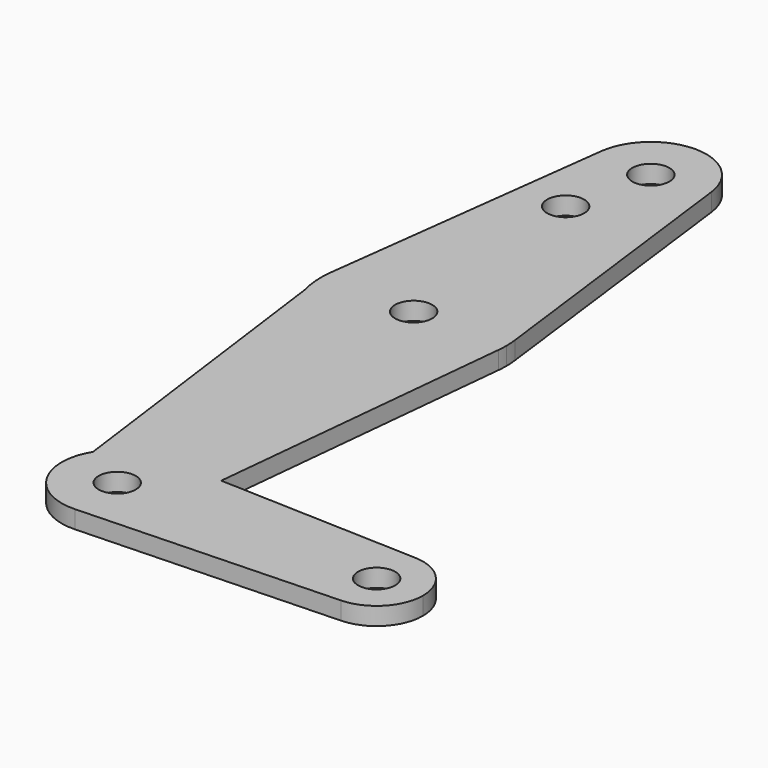
from build123d import *

# Parameters (mm, degrees)
F0_R     = 3.175
F1_DEPTH = 3.048


with BuildPart() as f1:
    # F0 (on Top) → F1 (new body)
    with BuildSketch(Plane.XY):
        with BuildLine():
            ThreePointArc((15.750488268, 1.9843750453), (-2.28e-08, 15.875), (-15.7504882737, 1.984375))
            ThreePointArc((-15.7504882737, 1.984375), (-15.8438414904, 0.9941387366), (-15.875, 0))
            Line((-15.875, 0), (-15.3276351094, -4.1327021368))
            ThreePointArc((-15.3276351094, -4.1327021368), (1.2939167116, -15.8221807771), (15.7954255641, -1.5875))
            ThreePointArc((15.7954255641, -1.5875), (15.8550939106, -0.7947465541), (15.875, 0))
            ThreePointArc((15.875, 0), (15.843841489, 0.9941387594), (15.750488268, 1.9843750453))
        make_face()
        Circle(F0_R, mode=Mode.SUBTRACT)
        with BuildLine():
            Line((-9.4502929642, 51.990625), (-15.7504882737, 1.984375))
            ThreePointArc((-15.7504882737, 1.984375), (-2.28e-08, 15.875), (15.750488268, 1.9843750453))
            Line((15.750488268, 1.9843750453), (9.4502929642, 51.990625))
            ThreePointArc((9.4502929642, 51.990625), (9.5063048942, 51.396483242), (9.525, 50.8))
            ThreePointArc((9.525, 50.8), (-0.596483242, 41.2936951058), (-9.4502929642, 51.990625))
        make_face()
        with Locations((-3.175, 36.5252)):
            Circle(F0_R, mode=Mode.SUBTRACT)
        with BuildLine():
            Line((-15.3276351094, -4.1327021368), (-15.875, 0))
            ThreePointArc((-15.875, 0), (-15.7375638579, -2.0843965119), (-15.3276351094, -4.1327021368))
        make_face()
        with BuildLine():
            ThreePointArc((9.4502929642, 51.990625), (0, 60.325), (-9.4502929642, 51.990625))
            ThreePointArc((-9.4502929642, 51.990625), (-0.596483242, 41.2936951058), (9.525, 50.8))
            ThreePointArc((9.525, 50.8), (9.5063048942, 51.396483242), (9.4502929642, 51.990625))
        make_face()
        with Locations((0, 50.8)):
            Circle(F0_R, mode=Mode.SUBTRACT)
        with BuildLine():
            ThreePointArc((15.7954255641, -1.5875), (1.2939167116, -15.8221807771), (-15.3276351094, -4.1327021368))
            Line((-15.3276351094, -4.1327021368), (-8.123344071, -58.5263789745))
            ThreePointArc((-8.123344071, -58.5263789745), (-4.506590709, -55.1085600055), (0.3401785714, -53.9810765556))
            Line((0.3401785714, -53.9810765556), (10.4932062399, -54.3439161633))
            Line((10.4932062399, -54.3439161633), (15.7954255641, -1.5875))
        make_face()
        with BuildLine():
            ThreePointArc((0.3401785714, -53.9810765556), (-4.506590709, -55.1085600055), (-8.123344071, -58.5263789745))
            ThreePointArc((-8.123344071, -58.5263789745), (-8.2251369351, -68.3034099762), (0.3401785714, -73.0189234444))
            ThreePointArc((0.3401785714, -73.0189234444), (6.5147068085, -70.448684782), (9.4772553384, -64.4525))
            ThreePointArc((9.4772553384, -64.4525), (9.5130563464, -63.9768479324), (9.525, -63.5))
            ThreePointArc((9.525, -63.5), (6.8544082857, -56.8861726622), (0.3401785714, -53.9810765556))
        make_face()
        with Locations((0, -63.5)):
            Circle(F0_R, mode=Mode.SUBTRACT)
        with BuildLine():
            Line((44.7334821429, -55.5675637964), (10.4932062399, -54.3439161633))
            Line((10.4932062399, -54.3439161633), (9.4772553384, -64.4525))
            ThreePointArc((9.4772553384, -64.4525), (6.5147068085, -70.448684782), (0.3401785714, -73.0189234444))
            Line((0.3401785714, -73.0189234444), (44.7334821429, -71.4324362036))
            ThreePointArc((44.7334821429, -71.4324362036), (36.5125, -63.5), (44.7334821429, -55.5675637964))
        make_face()
        with BuildLine():
            Line((9.4772553384, -64.4525), (10.4932062399, -54.3439161633))
            Line((10.4932062399, -54.3439161633), (0.3401785714, -53.9810765556))
            ThreePointArc((0.3401785714, -53.9810765556), (6.8544082857, -56.8861726622), (9.525, -63.5))
            ThreePointArc((9.525, -63.5), (9.5130563464, -63.9768479324), (9.4772553384, -64.4525))
        make_face()
        with BuildLine():
            ThreePointArc((52.3875, -63.5), (50.1620069047, -57.9884772185), (44.7334821429, -55.5675637964))
            ThreePointArc((44.7334821429, -55.5675637964), (36.5125, -63.5), (44.7334821429, -71.4324362036))
            ThreePointArc((44.7334821429, -71.4324362036), (50.1620069047, -69.0115227815), (52.3875, -63.5))
        make_face()
        with Locations((44.45, -63.5)):
            Circle(F0_R, mode=Mode.SUBTRACT)
    extrude(amount=F1_DEPTH)


solid = f1.part
